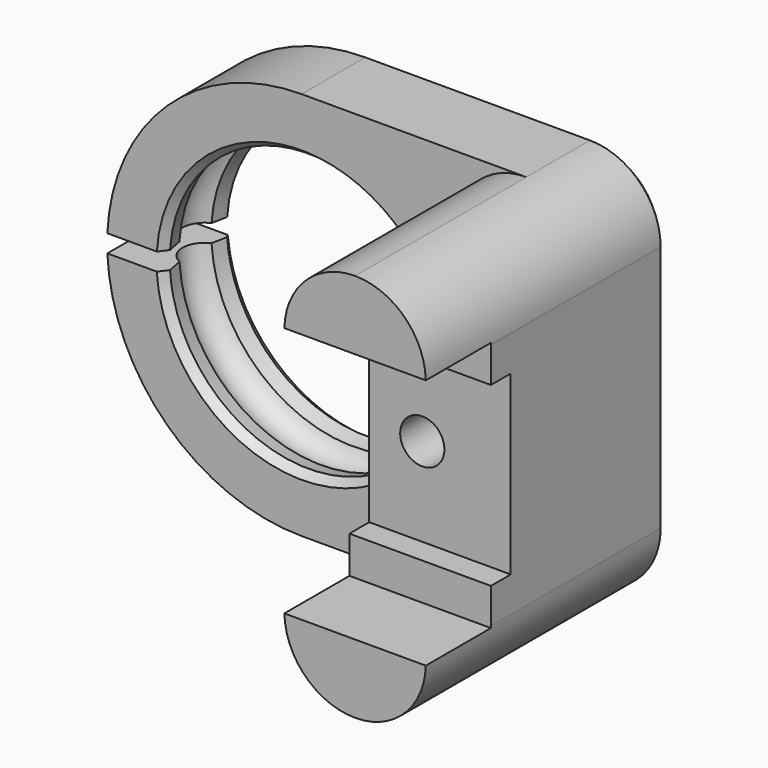
from build123d import *

# Parameters (mm, degrees)
CHAMFER_SIZE    = 0.5
CHAMFER001_SIZE = 0.5
SKETCH001_W     = 70
SKETCH001_H     = 70
SKETCH001_W_2   = 27.7
SKETCH001_H_2   = 22
POCKET_DEPTH    = 5.001
SKETCH002_W     = 8
SKETCH002_H     = 22
PAD_DEPTH       = 12.1
SKETCH003_W     = 8
SKETCH003_H     = 14.2
POCKET001_DEPTH = 4.6
SKETCH004_W     = 8
SKETCH004_H     = 10
POCKET002_DEPTH = 1.4
SKETCH005_R     = 1.25
POCKET003_DEPTH = 10
FILLET_R        = 10.999
FILLET001_R     = 10.999
FILLET002_R     = 3.999
FILLET003_R     = 3.999
FILLET004_R     = 3.999
FILLET005_R     = 3.999
CHAMFER002_SIZE = 0.5
SKETCH006_W     = 10
SKETCH006_H     = 1
POCKET004_DEPTH = 6
CHAMFER003_SIZE = 0.3
CHAMFER004_SIZE = 0.3


with BuildPart() as part:
    # Sketch → Revolution (revolve)
    with BuildSketch(Plane.XY):
        with BuildLine():
            Line((7.704544, 2.5), (31, 2.5))
            Line((31, 2.5), (31, -2.5))
            Line((7.704544, -2.5), (31, -2.5))
            ThreePointArc((7.704544, -2.5), (7.891937, -1.824097), (8.020154, -1.134517))
            ThreePointArc((8.020154, -1.134517), (8.748074, 0), (8.020154, 1.134517))
            ThreePointArc((8.020154, 1.134517), (7.891937, 1.824097), (7.704544, 2.5))
        make_face()
    revolve(axis=Axis((0, 0, 0), (0, 1, 0)))

    # Chamfer
    chamfer_edges = [part.edges().sort_by_distance(p)[0] for p in [
        (-7.704544, -2.5, 0),
    ]]
    chamfer(chamfer_edges, length=CHAMFER_SIZE)

    # Chamfer001
    chamfer001_edges = [part.edges().sort_by_distance(p)[0] for p in [
        (-7.704544, 2.5, 0),
    ]]
    chamfer(chamfer001_edges, length=CHAMFER001_SIZE)

    # Sketch001 → Pocket (cut, through all)
    with BuildSketch(Plane.XZ.offset(2.5)):
        Rectangle(SKETCH001_W, SKETCH001_H)
        with Locations((2.85, 0)):
            Rectangle(SKETCH001_W_2, SKETCH001_H_2, mode=Mode.SUBTRACT)
    extrude(amount=-POCKET_DEPTH, mode=Mode.SUBTRACT)

    # Sketch002 → Pad (new body)
    with BuildSketch(Plane.XZ.offset(2.5)):
        with Locations((12.7, 0)):
            Rectangle(SKETCH002_W, SKETCH002_H)
    extrude(amount=PAD_DEPTH)

    # Sketch003 → Pocket001 (cut)
    with BuildSketch(Plane.XZ.offset(14.6)):
        with Locations((12.7, 0)):
            Rectangle(SKETCH003_W, SKETCH003_H)
    extrude(amount=-POCKET001_DEPTH, mode=Mode.SUBTRACT)

    # Sketch004 → Pocket002 (cut)
    with BuildSketch(Plane.XZ.offset(10)):
        with Locations((12.7, 0)):
            Rectangle(SKETCH004_W, SKETCH004_H)
    extrude(amount=-POCKET002_DEPTH, mode=Mode.SUBTRACT)

    # Sketch005 → Pocket003 (cut)
    with BuildSketch(Plane.XZ.offset(8.6)):
        with Locations((11.7, 0)):
            Circle(SKETCH005_R)
    extrude(amount=-POCKET003_DEPTH, mode=Mode.SUBTRACT)

    # Fillet
    fillet_edges = [part.edges().sort_by_distance(p)[0] for p in [
        (-11, 0, 11),
    ]]
    fillet(fillet_edges, radius=FILLET_R)

    # Fillet001
    fillet001_edges = [part.edges().sort_by_distance(p)[0] for p in [
        (-11, 0, -11),
    ]]
    fillet(fillet001_edges, radius=FILLET001_R)

    # Fillet002
    fillet002_edges = [part.edges().sort_by_distance(p)[0] for p in [
        (8.7, -8.55, -11),
    ]]
    fillet(fillet002_edges, radius=FILLET002_R)

    # Fillet003
    fillet003_edges = [part.edges().sort_by_distance(p)[0] for p in [
        (16.7, -8.55, -11),
    ]]
    fillet(fillet003_edges, radius=FILLET003_R)

    # Fillet004
    fillet004_edges = [part.edges().sort_by_distance(p)[0] for p in [
        (8.7, -8.55, 11),
    ]]
    fillet(fillet004_edges, radius=FILLET004_R)

    # Fillet005
    fillet005_edges = [part.edges().sort_by_distance(p)[0] for p in [
        (16.7, -8.55, 11),
    ]]
    fillet(fillet005_edges, radius=FILLET005_R)

    # Chamfer002
    chamfer002_edges = [part.edges().sort_by_distance(p)[0] for p in [
        (16.7, 2.5, 0),
    ]]
    chamfer(chamfer002_edges, length=CHAMFER002_SIZE)

    # Sketch006 → Pocket004 (cut)
    with BuildSketch(Plane.XZ.offset(2.5)):
        with Locations((-10, 0)):
            Rectangle(SKETCH006_W, SKETCH006_H)
    extrude(amount=-POCKET004_DEPTH, mode=Mode.SUBTRACT)

    # Chamfer003
    chamfer003_edges = [part.edges().sort_by_distance(p)[0] for p in [
        (-9.338714, 2.5, -0.5),
    ]]
    chamfer(chamfer003_edges, length=CHAMFER003_SIZE)

    # Chamfer004
    chamfer004_edges = [part.edges().sort_by_distance(p)[0] for p in [
        (-9.338714, 2.5, 0.5),
    ]]
    chamfer(chamfer004_edges, length=CHAMFER004_SIZE)


solid = part.part
